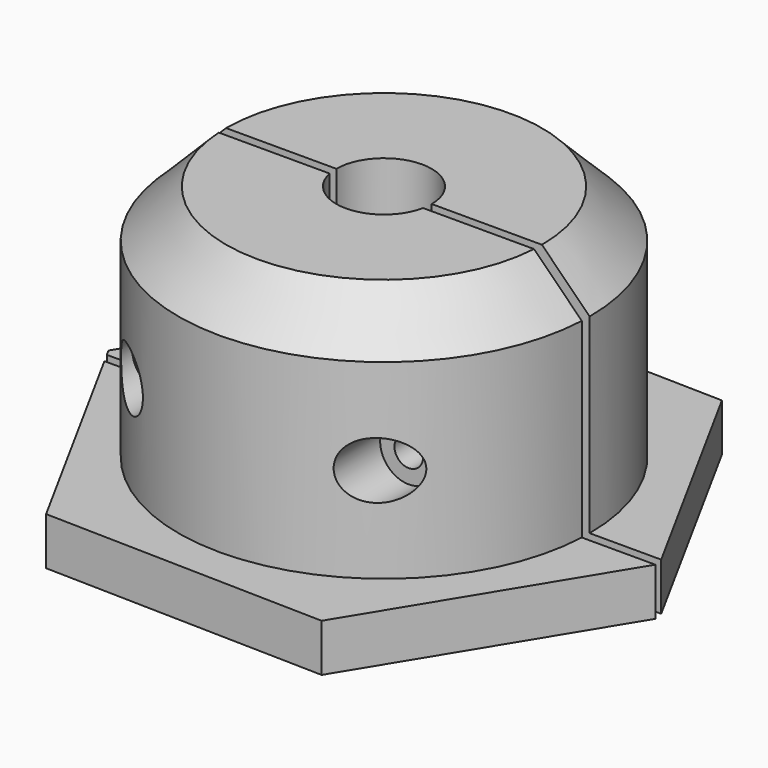
from build123d import *

# Parameters (mm, degrees)
F0_R      = 5
F1_DEPTH  = 5
F2_R      = 21.5602394688
F3_DEPTH  = 25
F4_SIZE   = 5
F5_DEPTH  = 25.001
F7_R      = 3
F7_R_2    = 1.5
F8_DEPTH  = 7
F9_DEPTH  = 30.7
F10_W     = 1
F10_H     = 40
F11_DEPTH = 50


with BuildPart() as f1:
    # F0 (on Top) → F1 (new body)
    with BuildSketch(Plane.XY):
        Polygon((-14.1271800967, 25.8345269458), (-29.4369466782, 0.6827666253), (-15.3097665815, -25.1517603205), (14.1271800967, -25.8345269458), (29.4369466782, -0.6827666253), (15.3097665815, 25.1517603205), align=None)
        Circle(F0_R, mode=Mode.SUBTRACT)
    extrude(amount=F1_DEPTH)

    # F2 (on face) → F3 (join)
    with BuildSketch(Plane.XY.offset(5)):
        Circle(F2_R)
    extrude(amount=F3_DEPTH)

    # F4
    f4_edges = [f1.edges().sort_by_distance(p)[0] for p in [
        (-21.560239, 0, 30),
    ]]
    chamfer(f4_edges, length=F4_SIZE)

    # F5 (cut, through all): a face of the model
    f5_faces = [f1.faces().sort_by_distance(p)[0] for p in [
        (0, 0, 5),
    ]]
    extrude(f5_faces, amount=-F5_DEPTH, mode=Mode.SUBTRACT)

    # F7 (on offset) → F8 (cut)
    with BuildSketch(Plane.XZ.offset(20)):
        with Locations((13, 15)):
            Circle(F7_R)
        with Locations((13, 15)):
            Circle(F7_R_2, mode=Mode.SUBTRACT)
        with Locations((-13, 15)):
            Circle(F7_R)
        with Locations((-13, 15)):
            Circle(F7_R_2, mode=Mode.SUBTRACT)
        with Locations((13, 15)):
            Circle(F7_R_2)
        with Locations((-13, 15)):
            Circle(F7_R_2)
    extrude(amount=-F8_DEPTH, mode=Mode.SUBTRACT)

    # F7 (on offset) → F9 (cut)
    with BuildSketch(Plane.XZ.offset(20)):
        with Locations((-13, 15)):
            Circle(F7_R_2)
        with Locations((13, 15)):
            Circle(F7_R_2)
    extrude(amount=-F9_DEPTH, mode=Mode.SUBTRACT)

    # F10 (on Right) → F11 (cut, symmetric)
    with BuildSketch(Plane.YZ):
        with Locations((-0.5, 17.8666667133)):
            Rectangle(F10_W, F10_H)
    extrude(amount=F11_DEPTH, both=True, mode=Mode.SUBTRACT)


solid = f1.part
